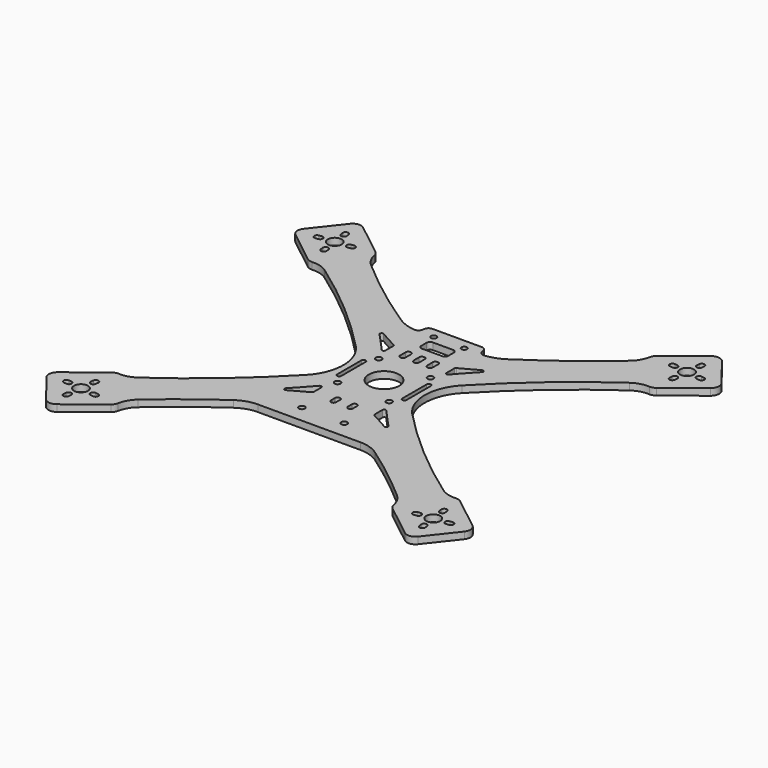
from build123d import *

# Parameters (mm, degrees)
F0_R      = 4.125
F0_R_2    = 1.75
F0_R_3    = 1.625
F1_DEPTH  = 4
F3_DEPTH  = 25
F5_DEPTH  = 25
F6_R      = 9
F7_DEPTH  = 25
F8_R      = 3
F10_DEPTH = 25


with BuildPart() as f1:
    # F0 (on Top) → F1 (new body)
    with BuildSketch(Plane.XY):
        with BuildLine():
            Line((-109.832785, 112.210604), (-123.417901, 94.906136))
            ThreePointArc((-123.417901, 94.906136), (-124.449212, 91.220887), (-122.572594, 87.885776))
            Line((-122.572594, 87.885776), (-102.95051, 72.481182))
            ThreePointArc((-102.95051, 72.481182), (-101.356805, 71.642381), (-99.569291, 71.422648))
            ThreePointArc((-99.569291, 71.422648), (-94.589354, 70.877662), (-90.066609, 68.723233))
            ThreePointArc((-90.066609, 68.723233), (-59.519967, 44.983663), (-31.406979, 18.406899))
            ThreePointArc((-31.406979, 18.406899), (-24, 0), (-31.406979, -18.406899))
            ThreePointArc((-31.406979, -18.406899), (-59.519967, -44.983663), (-90.066609, -68.723233))
            ThreePointArc((-90.066609, -68.723233), (-94.589354, -70.877662), (-99.569291, -71.422648))
            ThreePointArc((-99.569291, -71.422648), (-101.356805, -71.642381), (-102.95051, -72.481182))
            Line((-102.95051, -72.481182), (-122.572594, -87.885776))
            ThreePointArc((-122.572594, -87.885776), (-124.449212, -91.220887), (-123.417901, -94.906136))
            Line((-123.417901, -94.906136), (-109.832785, -112.210604))
            ThreePointArc((-109.832785, -112.210604), (-106.497674, -114.087221), (-102.812425, -113.055911))
            Line((-102.812425, -113.055911), (-83.190341, -97.651317))
            ThreePointArc((-83.190341, -97.651317), (-81.997209, -96.302272), (-81.359447, -94.618008))
            ThreePointArc((-81.359447, -94.618008), (-79.647928, -89.909772), (-76.481493, -86.027701))
            ThreePointArc((-76.481493, -86.027701), (-59.472873, -71.954509), (-41.714471, -58.840125))
            ThreePointArc((-41.714471, -58.840125), (-36.273126, -56.168628), (-30.281361, -55.25))
            Line((-30.281361, -55.25), (30.281361, -55.25))
            ThreePointArc((30.281361, -55.25), (36.273126, -56.168628), (41.714471, -58.840125))
            ThreePointArc((41.714471, -58.840125), (59.472873, -71.954509), (76.481493, -86.027701))
            ThreePointArc((76.481493, -86.027701), (79.647928, -89.909772), (81.359447, -94.618008))
            ThreePointArc((81.359447, -94.618008), (81.997209, -96.302272), (83.190341, -97.651317))
            Line((83.190341, -97.651317), (102.812425, -113.055911))
            ThreePointArc((102.812425, -113.055911), (106.497674, -114.087221), (109.832785, -112.210604))
            Line((109.832785, -112.210604), (123.417901, -94.906136))
            ThreePointArc((123.417901, -94.906136), (124.449212, -91.220887), (122.572594, -87.885776))
            Line((122.572594, -87.885776), (102.95051, -72.481182))
            ThreePointArc((102.95051, -72.481182), (101.356805, -71.642381), (99.569291, -71.422648))
            ThreePointArc((99.569291, -71.422648), (94.589354, -70.877662), (90.066609, -68.723233))
            ThreePointArc((90.066609, -68.723233), (59.519967, -44.983663), (31.406979, -18.406899))
            ThreePointArc((31.406979, -18.406899), (24, 0), (31.406979, 18.406899))
            ThreePointArc((31.406979, 18.406899), (59.519967, 44.983663), (90.066609, 68.723233))
            ThreePointArc((90.066609, 68.723233), (94.589354, 70.877662), (99.569291, 71.422648))
            ThreePointArc((99.569291, 71.422648), (101.356805, 71.642381), (102.95051, 72.481182))
            Line((102.95051, 72.481182), (122.572594, 87.885776))
            ThreePointArc((122.572594, 87.885776), (124.449212, 91.220887), (123.417901, 94.906136))
            Line((123.417901, 94.906136), (109.832785, 112.210604))
            ThreePointArc((109.832785, 112.210604), (106.497674, 114.087221), (102.812425, 113.055911))
            Line((102.812425, 113.055911), (83.190341, 97.651317))
            ThreePointArc((83.190341, 97.651317), (81.997209, 96.302272), (81.359447, 94.618008))
            ThreePointArc((81.359447, 94.618008), (79.647928, 89.909772), (76.481493, 86.027701))
            ThreePointArc((76.481493, 86.027701), (54.480461, 68.113377), (31.266058, 51.802035))
            ThreePointArc((31.266058, 51.802035), (26.256535, 49.33032), (20.806224, 48.106064))
            ThreePointArc((20.806224, 48.106064), (18.48986, 48.863437), (17.5, 51.090394))
            Line((17.5, 51.090394), (17.5, 54))
            Line((17.5, 54), (0, 54))
            Line((0, 54), (-17.5, 54))
            Line((-17.5, 54), (-17.5, 51.090394))
            ThreePointArc((-17.5, 51.090394), (-18.48986, 48.863437), (-20.806224, 48.106064))
            ThreePointArc((-20.806224, 48.106064), (-26.256535, 49.33032), (-31.266058, 51.802035))
            ThreePointArc((-31.266058, 51.802035), (-54.480461, 68.113377), (-76.481493, 86.027701))
            ThreePointArc((-76.481493, 86.027701), (-79.647928, 89.909772), (-81.359447, 94.618008))
            ThreePointArc((-81.359447, 94.618008), (-81.997209, 96.302272), (-83.190341, 97.651317))
            Line((-83.190341, 97.651317), (-102.812425, 113.055911))
            ThreePointArc((-102.812425, 113.055911), (-106.497674, 114.087221), (-109.832785, 112.210604))
        make_face()
        with Locations((-104.040276, -93.678285)):
            Circle(F0_R, mode=Mode.SUBTRACT)
        with Locations((-12.5, -45)):
            Circle(F0_R_2, mode=Mode.SUBTRACT)
        with Locations((-15.25, -15.25)):
            Circle(F0_R_2, mode=Mode.SUBTRACT)
        with Locations((104.040276, -93.678285)):
            Circle(F0_R, mode=Mode.SUBTRACT)
        with Locations((12.5, -45)):
            Circle(F0_R_2, mode=Mode.SUBTRACT)
        with Locations((15.25, -15.25)):
            Circle(F0_R_2, mode=Mode.SUBTRACT)
        with BuildLine():
            Line((-20.5, -9), (-20.5, 9))
            ThreePointArc((-20.5, 9), (-19.25, 10.25), (-18, 9))
            Line((-18, 9), (-18, -9))
            ThreePointArc((-18, -9), (-19.25, -10.25), (-20.5, -9))
        make_face(mode=Mode.SUBTRACT)
        with Locations((-15.25, 15.25)):
            Circle(F0_R_2, mode=Mode.SUBTRACT)
        with Locations((-9, 48)):
            Circle(F0_R_3, mode=Mode.SUBTRACT)
        with Locations((-104.040276, 93.678285)):
            Circle(F0_R, mode=Mode.SUBTRACT)
        with BuildLine():
            ThreePointArc((18, 9), (19.25, 10.25), (20.5, 9))
            Line((20.5, 9), (20.5, -9))
            ThreePointArc((20.5, -9), (19.25, -10.25), (18, -9))
            Line((18, -9), (18, 9))
        make_face(mode=Mode.SUBTRACT)
        with Locations((15.25, 15.25)):
            Circle(F0_R_2, mode=Mode.SUBTRACT)
        with Locations((9, 48)):
            Circle(F0_R_3, mode=Mode.SUBTRACT)
        with Locations((104.040276, 93.678285)):
            Circle(F0_R, mode=Mode.SUBTRACT)
    extrude(amount=F1_DEPTH)

    # F2 (on face) → F3 (cut)
    with BuildSketch(Plane.XY.offset(4)):
        with BuildLine():
            ThreePointArc((-106.604001, 101.377014), (-104.796394, 99.957927), (-103.377307, 101.765534))
            Line((-103.377307, 101.765534), (-103.568579, 103.35406))
            ThreePointArc((-103.568579, 103.35406), (-105.376185, 104.773147), (-106.795272, 102.965541))
            Line((-106.795272, 102.965541), (-106.604001, 101.377014))
        make_face()
        with BuildLine():
            ThreePointArc((-111.739005, 91.114559), (-110.319918, 92.922166), (-112.127525, 94.341253))
            Line((-112.127525, 94.341253), (-113.716051, 94.149982))
            ThreePointArc((-113.716051, 94.149982), (-115.135138, 92.342375), (-113.327531, 90.923288))
            Line((-113.327531, 90.923288), (-111.739005, 91.114559))
        make_face()
        with BuildLine():
            ThreePointArc((-101.47655, 85.979555), (-103.284157, 87.398642), (-104.703244, 85.591036))
            Line((-104.703244, 85.591036), (-104.511973, 84.00251))
            ThreePointArc((-104.511973, 84.00251), (-102.704366, 82.583423), (-101.285279, 84.391029))
            Line((-101.285279, 84.391029), (-101.47655, 85.979555))
        make_face()
        with BuildLine():
            ThreePointArc((-96.341546, 96.24201), (-97.760633, 94.434404), (-95.953026, 93.015317))
            Line((-95.953026, 93.015317), (-94.3645, 93.206588))
            ThreePointArc((-94.3645, 93.206588), (-92.945413, 95.014194), (-94.75302, 96.433282))
            Line((-94.75302, 96.433282), (-96.341546, 96.24201))
        make_face()
        with BuildLine():
            Line((103.568579, 103.35406), (103.377307, 101.765534))
            ThreePointArc((103.377307, 101.765534), (104.796394, 99.957927), (106.604001, 101.377014))
            Line((106.604001, 101.377014), (106.795272, 102.965541))
            ThreePointArc((106.795272, 102.965541), (105.376185, 104.773147), (103.568579, 103.35406))
        make_face()
        with BuildLine():
            Line((113.716051, 94.149982), (112.127525, 94.341253))
            ThreePointArc((112.127525, 94.341253), (110.319918, 92.922166), (111.739005, 91.114559))
            Line((111.739005, 91.114559), (113.327531, 90.923288))
            ThreePointArc((113.327531, 90.923288), (115.135138, 92.342375), (113.716051, 94.149982))
        make_face()
        with BuildLine():
            ThreePointArc((95.953026, 93.015317), (97.760633, 94.434404), (96.341546, 96.24201))
            Line((96.341546, 96.24201), (94.75302, 96.433282))
            ThreePointArc((94.75302, 96.433282), (92.945413, 95.014194), (94.3645, 93.206588))
            Line((94.3645, 93.206588), (95.953026, 93.015317))
        make_face()
        with BuildLine():
            Line((104.511973, 84.00251), (104.703244, 85.591036))
            ThreePointArc((104.703244, 85.591036), (103.284157, 87.398642), (101.47655, 85.979555))
            Line((101.47655, 85.979555), (101.285279, 84.391029))
            ThreePointArc((101.285279, 84.391029), (102.704366, 82.583423), (104.511973, 84.00251))
        make_face()
        with BuildLine():
            Line((-103.568579, -103.35406), (-103.377307, -101.765534))
            ThreePointArc((-103.377307, -101.765534), (-104.796394, -99.957927), (-106.604001, -101.377014))
            Line((-106.604001, -101.377014), (-106.795272, -102.965541))
            ThreePointArc((-106.795272, -102.965541), (-105.376185, -104.773147), (-103.568579, -103.35406))
        make_face()
        with BuildLine():
            Line((-113.716051, -94.149982), (-112.127525, -94.341253))
            ThreePointArc((-112.127525, -94.341253), (-110.319918, -92.922166), (-111.739005, -91.114559))
            Line((-111.739005, -91.114559), (-113.327531, -90.923288))
            ThreePointArc((-113.327531, -90.923288), (-115.135138, -92.342375), (-113.716051, -94.149982))
        make_face()
        with BuildLine():
            ThreePointArc((96.341546, -96.24201), (97.760633, -94.434404), (95.953026, -93.015317))
            Line((95.953026, -93.015317), (94.3645, -93.206588))
            ThreePointArc((94.3645, -93.206588), (92.945413, -95.014194), (94.75302, -96.433282))
            Line((94.75302, -96.433282), (96.341546, -96.24201))
        make_face()
        with BuildLine():
            Line((106.795272, -102.965541), (106.604001, -101.377014))
            ThreePointArc((106.604001, -101.377014), (104.796394, -99.957927), (103.377307, -101.765534))
            Line((103.377307, -101.765534), (103.568579, -103.35406))
            ThreePointArc((103.568579, -103.35406), (105.376185, -104.773147), (106.795272, -102.965541))
        make_face()
        with BuildLine():
            Line((113.327531, -90.923288), (111.739005, -91.114559))
            ThreePointArc((111.739005, -91.114559), (110.319918, -92.922166), (112.127525, -94.341253))
            Line((112.127525, -94.341253), (113.716051, -94.149982))
            ThreePointArc((113.716051, -94.149982), (115.135138, -92.342375), (113.327531, -90.923288))
        make_face()
        with BuildLine():
            Line((101.285279, -84.391029), (101.47655, -85.979555))
            ThreePointArc((101.47655, -85.979555), (103.284157, -87.398642), (104.703244, -85.591036))
            Line((104.703244, -85.591036), (104.511973, -84.00251))
            ThreePointArc((104.511973, -84.00251), (102.704366, -82.583423), (101.285279, -84.391029))
        make_face()
        with BuildLine():
            ThreePointArc((-104.703244, -85.591036), (-103.284157, -87.398642), (-101.47655, -85.979555))
            Line((-101.47655, -85.979555), (-101.285279, -84.391029))
            ThreePointArc((-101.285279, -84.391029), (-102.704366, -82.583423), (-104.511973, -84.00251))
            Line((-104.511973, -84.00251), (-104.703244, -85.591036))
        make_face()
        with BuildLine():
            Line((-96.341546, -96.24201), (-94.75302, -96.433282))
            ThreePointArc((-94.75302, -96.433282), (-92.945413, -95.014194), (-94.3645, -93.206588))
            Line((-94.3645, -93.206588), (-95.953026, -93.015317))
            ThreePointArc((-95.953026, -93.015317), (-97.760633, -94.434404), (-96.341546, -96.24201))
        make_face()
    extrude(amount=-F3_DEPTH, mode=Mode.SUBTRACT)

    # F4 (on face) → F5 (cut)
    with BuildSketch(Plane.XY.offset(4)):
        with BuildLine():
            ThreePointArc((-6.375, 28), (-8, 29.625), (-9.625, 28))
            Line((-9.625, 28), (-9.625, 24))
            ThreePointArc((-9.625, 24), (-8, 22.375), (-6.375, 24))
            Line((-6.375, 24), (-6.375, 28))
        make_face()
        with BuildLine():
            ThreePointArc((1.625, 28), (0, 29.625), (-1.625, 28))
            Line((-1.625, 28), (-1.625, 24))
            ThreePointArc((-1.625, 24), (0, 22.375), (1.625, 24))
            Line((1.625, 24), (1.625, 28))
        make_face()
        with BuildLine():
            ThreePointArc((9.625, 28), (8, 29.625), (6.375, 28))
            Line((6.375, 28), (6.375, 24))
            ThreePointArc((6.375, 24), (8, 22.375), (9.625, 24))
            Line((9.625, 24), (9.625, 28))
        make_face()
    extrude(amount=-F5_DEPTH, mode=Mode.SUBTRACT)

    # F6 (on face) → F7 (cut)
    with BuildSketch(Plane.XY.offset(4)):
        with BuildLine():
            Line((6, 43.5), (-6, 43.5))
            ThreePointArc((-6, 43.5), (-7.414214, 42.914214), (-8, 41.5))
            Line((-8, 41.5), (-8, 37.5))
            ThreePointArc((-8, 37.5), (-7.414214, 36.085786), (-6, 35.5))
            Line((-6, 35.5), (6, 35.5))
            ThreePointArc((6, 35.5), (7.414214, 36.085786), (8, 37.5))
            Line((8, 37.5), (8, 41.5))
            ThreePointArc((8, 41.5), (7.414214, 42.914214), (6, 43.5))
        make_face()
        with BuildLine():
            ThreePointArc((-3.5, -28), (-5, -26.5), (-6.5, -28))
            Line((-6.5, -28), (-6.5, -31))
            ThreePointArc((-6.5, -31), (-5, -32.5), (-3.5, -31))
            Line((-3.5, -31), (-3.5, -28))
        make_face()
        with BuildLine():
            ThreePointArc((6.5, -28), (5, -26.5), (3.5, -28))
            Line((3.5, -28), (3.5, -31))
            ThreePointArc((3.5, -31), (5, -32.5), (6.5, -31))
            Line((6.5, -31), (6.5, -28))
        make_face()
        Circle(F6_R)
    extrude(amount=-F7_DEPTH, mode=Mode.SUBTRACT)

    # F8
    f8_edges = [f1.edges().sort_by_distance(p)[0] for p in [
        (-17.5, 54, 2),
        (17.5, 54, 2),
    ]]
    fillet(f8_edges, radius=F8_R)

    # F9 (on face) → F10 (cut)
    with BuildSketch(Plane.XY.offset(4)):
        with BuildLine():
            ThreePointArc((-18.528385, 30.265889), (-23.790004, 33.120388), (-29.01725, 36.037355))
            ThreePointArc((-29.01725, 36.037355), (-30.296303, 35.78454), (-30.238277, 34.482032))
            ThreePointArc((-30.238277, 34.482032), (-24.949275, 28.768816), (-19.749412, 22.974352))
            ThreePointArc((-19.749412, 22.974352), (-18.646031, 22.701198), (-18, 23.636455))
            Line((-18, 23.636455), (-18, 29.384085))
            ThreePointArc((-18, 29.384085), (-18.142208, 29.898081), (-18.528385, 30.265889))
        make_face()
        with BuildLine():
            ThreePointArc((18.528385, 30.265889), (18.142208, 29.898081), (18, 29.384085))
            Line((18, 29.384085), (18, 23.636455))
            ThreePointArc((18, 23.636455), (18.646031, 22.701198), (19.749412, 22.974352))
            ThreePointArc((19.749412, 22.974352), (24.949275, 28.768816), (30.238277, 34.482032))
            ThreePointArc((30.238277, 34.482032), (30.296303, 35.78454), (29.01725, 36.037355))
            ThreePointArc((29.01725, 36.037355), (23.790004, 33.120388), (18.528385, 30.265889))
        make_face()
        with BuildLine():
            Line((18, -23.636455), (18, -29.384085))
            ThreePointArc((18, -29.384085), (18.142208, -29.898081), (18.528385, -30.265889))
            ThreePointArc((18.528385, -30.265889), (23.790004, -33.120388), (29.01725, -36.037355))
            ThreePointArc((29.01725, -36.037355), (30.296303, -35.78454), (30.238277, -34.482032))
            ThreePointArc((30.238277, -34.482032), (24.949275, -28.768816), (19.749412, -22.974352))
            ThreePointArc((19.749412, -22.974352), (18.646031, -22.701198), (18, -23.636455))
        make_face()
        with BuildLine():
            ThreePointArc((-18.528385, -30.265889), (-18.142208, -29.898081), (-18, -29.384085))
            Line((-18, -29.384085), (-18, -23.636455))
            ThreePointArc((-18, -23.636455), (-18.646031, -22.701198), (-19.749412, -22.974352))
            ThreePointArc((-19.749412, -22.974352), (-24.949275, -28.768816), (-30.238277, -34.482032))
            ThreePointArc((-30.238277, -34.482032), (-30.296303, -35.78454), (-29.01725, -36.037355))
            ThreePointArc((-29.01725, -36.037355), (-23.790004, -33.120388), (-18.528385, -30.265889))
        make_face()
    extrude(amount=-F10_DEPTH, mode=Mode.SUBTRACT)


solid = f1.part
